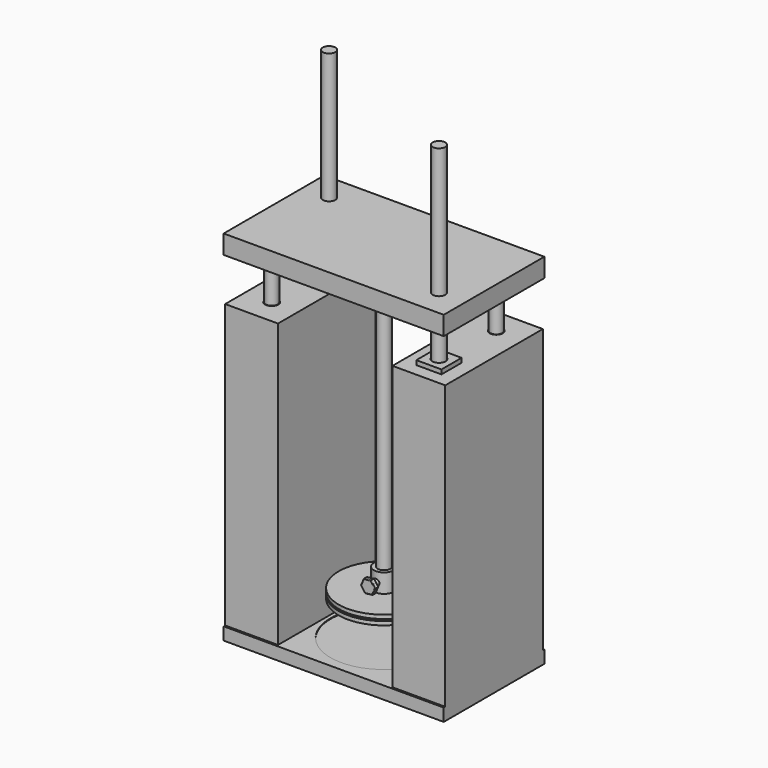
from build123d import *

# Parameters (mm, degrees)
F0_W           = 350
F0_H           = 200
F1_DEPTH       = 20
F2_W           = 84
F2_H           = 194
F2_W_2         = 80
F2_H_2         = 190
F3_DEPTH       = 450
F4_W           = 80
F4_H           = 190
F4_R           = 10.5
F4_W_2         = 84
F4_H_2         = 194
F5_DEPTH       = 2
F6_R           = 9.5
F7_DEPTH       = 70
F8_W           = 350
F8_H           = 200
F8_R           = 9.5
F9_DEPTH       = 30
F10_R          = 85
F11_DEPTH      = 1
F12_R          = 10
F13_DEPTH      = 450
F14_W          = 16
F14_H          = 30
F16_R          = 5
F17_DEPTH      = 25
F17_DEPTH_BACK = 25
F18_R          = 5
F19_DEPTH      = 7
F20_R          = 1
F21_W          = 40
F21_H          = 40
F21_R          = 10.5
F22_DEPTH      = 7
F23_R          = 10
F24_DEPTH      = 300
F24_DEPTH_BACK = 25


with BuildPart() as f1:
    # F0 (on Top) → F1 (new body)
    with BuildSketch(Plane.XY):
        Rectangle(F0_W, F0_H)
    extrude(amount=F1_DEPTH)

    # F2 (on face) → F3 (join)
    with BuildSketch(Plane.XY.offset(20)):
        with Locations((-133, 0)):
            Rectangle(F2_W, F2_H)
        with Locations((-133, 0)):
            Rectangle(F2_W_2, F2_H_2, mode=Mode.SUBTRACT)
        with Locations((133, 0)):
            Rectangle(F2_W, F2_H)
        with Locations((133, 0)):
            Rectangle(F2_W_2, F2_H_2, mode=Mode.SUBTRACT)
    extrude(amount=F3_DEPTH)

    # F4 (on face) → F5 (join)
    with BuildSketch(Plane.XY.offset(470)):
        with Locations((-133, 0)):
            Rectangle(F4_W, F4_H)
        with Locations((-133, -57)):
            Circle(F4_R, mode=Mode.SUBTRACT)
        with Locations((-133, 57)):
            Circle(F4_R, mode=Mode.SUBTRACT)
        with Locations((133, 0)):
            Rectangle(F4_W_2, F4_H_2)
        with Locations((133, -57)):
            Circle(F4_R, mode=Mode.SUBTRACT)
        with Locations((133, 57)):
            Circle(F4_R, mode=Mode.SUBTRACT)
    extrude(amount=-F5_DEPTH)

    # F10 (on face) → F11 (cut)
    with BuildSketch(Plane.XY.offset(20)):
        Circle(F10_R)
    extrude(amount=-F11_DEPTH, mode=Mode.SUBTRACT)


with BuildPart() as f7:
    # F6 (on face) → F7 (new body)
    with BuildSketch(Plane.XY.offset(470)):
        with Locations((-133, -57)):
            Circle(F6_R)
    extrude(amount=F7_DEPTH)


with BuildPart() as f7b:
    # F6 (on face) → F7, piece 2 (new body)
    with BuildSketch(Plane.XY.offset(470)):
        with Locations((133, 57)):
            Circle(F6_R)
    extrude(amount=F7_DEPTH)


with BuildPart() as f9:
    # F8 (on face) → F9 (new body)
    with BuildSketch(Plane.XY.offset(540)):
        Rectangle(F8_W, F8_H)
        with Locations((133, 57)):
            Circle(F8_R, mode=Mode.SUBTRACT)
        with Locations((133, 57)):
            Circle(F8_R)
    extrude(amount=F9_DEPTH)


with BuildPart() as f13:
    # F12 (on face) → F13 (new body)
    with BuildSketch(Plane(origin=(0, 0, 540), x_dir=(1, 0, 0), z_dir=(0, 0, -1))):
        Circle(F12_R)
    extrude(amount=F13_DEPTH)


with BuildPart() as f15:
    # F14 (on Front) → F15 (revolve)
    with BuildSketch(Plane.XZ):
        Polygon((16, 90), (0, 90), (0, 75), (72, 75), (72, 81), (70, 81), (70, 84), (72, 84), (72, 90), align=None)
        with Locations((8, 105)):
            Rectangle(F14_W, F14_H)
    revolve(axis=Axis((0, 0, 82.5), (0, 0, 1)))


with BuildPart() as f17:
    # F16 (on Front) → F17 (new body, two sides)
    with BuildSketch(Plane.XZ) as f17_sk:
        with Locations((0, 104.2923107743)):
            Circle(F16_R)
    extrude(amount=F17_DEPTH)
    extrude(f17_sk.sketch, amount=-F17_DEPTH_BACK)

    # F18 (on face) → F19 (join)
    with BuildSketch(Plane.XZ.offset(25)):
        with BuildLine():
            ThreePointArc((9.1834995564, 100.3346175196), (9.7937478925, 102.2717904903), (10, 104.2923107743))
            ThreePointArc((10, 104.2923107743), (9.491894557, 107.4393630013), (8.0192124561, 110.2666083551))
            ThreePointArc((8.0192124561, 110.2666083551), (3.9576923265, 113.4758107307), (-1.1642885194, 114.2243011209))
            ThreePointArc((-1.1642885194, 114.2243011209), (-5.974297981, 112.3115229323), (-9.1834995906, 108.2500039496))
            ThreePointArc((-9.1834995906, 108.2500039496), (-9.9319904991, 103.1280235561), (-8.0192123209, 98.3180130121))
            ThreePointArc((-8.0192123209, 98.3180130121), (-3.9576924307, 95.1088108628), (1.1642880694, 94.360320375))
            ThreePointArc((1.1642880694, 94.360320375), (5.9742977646, 96.2730984552), (9.1834995564, 100.3346175196))
        make_face()
        with Locations((0, 104.2923107743)):
            Circle(F18_R, mode=Mode.SUBTRACT)
        with Locations((0, 104.2923107743)):
            Circle(F18_R)
        with BuildLine():
            ThreePointArc((-9.1834995906, 108.2500039496), (-5.974297981, 112.3115229323), (-1.1642885194, 114.2243011209))
            Line((-1.1642885194, 114.2243011209), (-6.8985246466, 113.5520997046))
            Line((-6.8985246466, 113.5520997046), (-9.1834995906, 108.2500039496))
        make_face()
        with BuildLine():
            ThreePointArc((-8.0192123209, 98.3180130121), (-9.9319904991, 103.1280235561), (-9.1834995906, 108.2500039496))
            Line((-9.1834995906, 108.2500039496), (-11.4684747706, 102.9479076469))
            Line((-11.4684747706, 102.9479076469), (-8.0192123209, 98.3180130121))
        make_face()
        with BuildLine():
            Line((-4.569950124, 93.6881187166), (1.1642880694, 94.360320375))
            ThreePointArc((1.1642880694, 94.360320375), (-3.9576924307, 95.1088108628), (-8.0192123209, 98.3180130121))
            Line((-8.0192123209, 98.3180130121), (-4.569950124, 93.6881187166))
        make_face()
        with BuildLine():
            Line((6.8985246466, 95.032521844), (9.1834995564, 100.3346175196))
            ThreePointArc((9.1834995564, 100.3346175196), (5.9742977646, 96.2730984552), (1.1642880694, 94.360320375))
            Line((1.1642880694, 94.360320375), (6.8985246466, 95.032521844))
        make_face()
        with BuildLine():
            ThreePointArc((8.0192124561, 110.2666083551), (9.491894557, 107.4393630013), (10, 104.2923107743))
            ThreePointArc((10, 104.2923107743), (9.7937478925, 102.2717904903), (9.1834995564, 100.3346175196))
            Line((9.1834995564, 100.3346175196), (11.4684747706, 105.6367139017))
            Line((11.4684747706, 105.6367139017), (8.0192124561, 110.2666083551))
        make_face()
        with BuildLine():
            ThreePointArc((-1.1642885194, 114.2243011209), (3.9576923265, 113.4758107307), (8.0192124561, 110.2666083551))
            Line((8.0192124561, 110.2666083551), (4.569950124, 114.896502832))
            Line((4.569950124, 114.896502832), (-1.1642885194, 114.2243011209))
        make_face()
    extrude(amount=F19_DEPTH)

    # F20
    f20_edges = [f17.edges().sort_by_distance(p)[0] for p in [
        (-9.1835, -32, 108.250004),
        (-8.019212, -32, 98.318013),
        (1.164287, -32, 94.36032),
        (9.1835, -32, 100.334618),
        (8.019212, -32, 110.266608),
        (-1.164287, -32, 114.224301),
        (-9.1835, -25, 108.250004),
        (-1.164287, -25, 114.224301),
        (-8.019212, -25, 98.318013),
        (8.019212, -25, 110.266608),
        (1.164287, -25, 94.36032),
        (9.1835, -25, 100.334618),
        (-5, -25, 104.292311),
    ]]
    fillet(f20_edges, radius=F20_R)


with BuildPart() as f22:
    # F21 (on face) → F22 (new body)
    with BuildSketch(Plane.XY.offset(470)):
        with Locations((-133, 57)):
            Rectangle(F21_W, F21_H)
        with Locations((-133, 57)):
            Circle(F21_R, mode=Mode.SUBTRACT)
    extrude(amount=F22_DEPTH)


with BuildPart() as f22b:
    # F21 (on face) → F22, piece 2 (new body)
    with BuildSketch(Plane.XY.offset(470)):
        with Locations((133, -57)):
            Rectangle(F21_W, F21_H)
        with Locations((133, -57)):
            Circle(F21_R, mode=Mode.SUBTRACT)
    extrude(amount=F22_DEPTH)


with BuildPart() as f24:
    # F23 (on face) → F24 (new body, two sides)
    with BuildSketch(Plane.XY.offset(477)) as f24_sk:
        with Locations((-133, 57)):
            Circle(F23_R)
    extrude(amount=F24_DEPTH)
    extrude(f24_sk.sketch, amount=-F24_DEPTH_BACK)


with BuildPart() as f24b:
    # F23 (on face) → F24, piece 2 (new body, two sides)
    with BuildSketch(Plane.XY.offset(477)) as f24_2_sk:
        with Locations((133, -57)):
            Circle(F23_R)
    extrude(amount=F24_DEPTH)
    extrude(f24_2_sk.sketch, amount=-F24_DEPTH_BACK)


solid = Compound([f1.part, f7.part, f7b.part, f9.part, f13.part, f15.part, f17.part, f22.part, f22b.part, f24.part, f24b.part])
